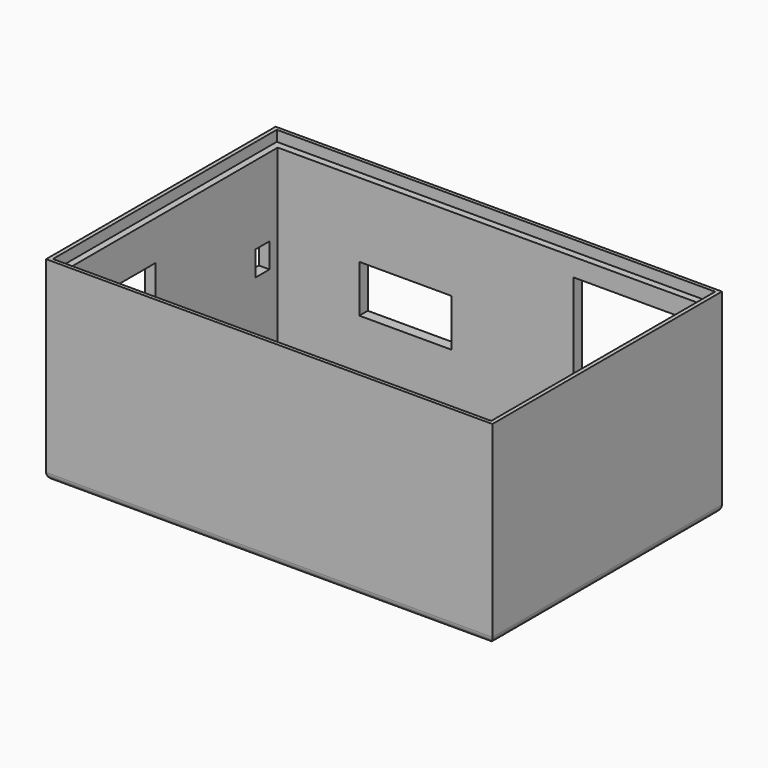
from build123d import *

# Parameters (mm, degrees)
SKETCH_W        = 126
SKETCH_H        = 81
SKETCH_W_2      = 120
SKETCH_H_2      = 75
PAD_DEPTH       = 49
SKETCH001_W     = 126
SKETCH001_H     = 81
PAD001_DEPTH    = 3
SKETCH006_W     = 26.07241
SKETCH006_H     = 13.378264
POCKET002_DEPTH = 5
SKETCH007_W     = 126
SKETCH007_H     = 81
SKETCH007_W_2   = 123.756296
SKETCH007_H_2   = 79.00857
PAD004_DEPTH    = 3
SKETCH003_W     = 17
SKETCH003_H     = 14
SKETCH003_W_2   = 6.8
POCKET_DEPTH    = 5
SKETCH004_W     = 30
SKETCH004_H     = 24
POCKET003_DEPTH = 10
FILLET_R        = 2
SKETCH008_W     = 5
SKETCH008_H     = 7
POCKET004_DEPTH = 5


with BuildPart() as part:
    # Sketch → Pad (new body)
    with BuildSketch(Plane.XY):
        Rectangle(SKETCH_W, SKETCH_H)
        Rectangle(SKETCH_W_2, SKETCH_H_2, mode=Mode.SUBTRACT)
    extrude(amount=PAD_DEPTH)

    # Sketch001 (on Face9 of Pad) → Pad001 (join)
    with BuildSketch(Plane(origin=(0, 0, 0), x_dir=(1, 0, 0), z_dir=(0, 0, -1))):
        Rectangle(SKETCH001_W, SKETCH001_H)
    extrude(amount=PAD001_DEPTH)

    # Sketch006 → Pocket002 (cut)
    with BuildSketch(Plane(origin=(0, 40.5, 0), x_dir=(-1, 0, 0), z_dir=(0, 1, 0))):
        with Locations((23.94159, 21.396661)):
            Rectangle(SKETCH006_W, SKETCH006_H)
    extrude(amount=-POCKET002_DEPTH, mode=Mode.SUBTRACT)

    # Sketch007 (on Face4 of Pocket002) → Pad004 (join)
    with BuildSketch(Plane.XY.offset(49)):
        Rectangle(SKETCH007_W, SKETCH007_H)
        Rectangle(SKETCH007_W_2, SKETCH007_H_2, mode=Mode.SUBTRACT)
    extrude(amount=PAD004_DEPTH)

    # Sketch003 → Pocket (cut)
    with BuildSketch(Plane(origin=(-63, 0, 0), x_dir=(0, -1, 0), z_dir=(-1, 0, 0))):
        with Locations((14.1, 30.857126)):
            Rectangle(SKETCH003_W, SKETCH003_H)
        with Locations((27.8, 31.697018)):
            Rectangle(SKETCH003_W_2, SKETCH003_H)
    extrude(amount=-POCKET_DEPTH, mode=Mode.SUBTRACT)

    # Sketch004 → Pocket003 (cut)
    with BuildSketch(Plane(origin=(0, 47.5, 0), x_dir=(-1, 0, 0), z_dir=(0, 1, 0))):
        with Locations((-38.538937, 31.890343)):
            Rectangle(SKETCH004_W, SKETCH004_H)
    extrude(amount=-POCKET003_DEPTH, mode=Mode.SUBTRACT)

    # Fillet
    fillet_edges = [part.edges().sort_by_distance(p)[0] for p in [
        (0, -40.5, -3),
        (63, 0, -3),
        (0, 40.5, -3),
        (-63, 0, -3),
    ]]
    fillet(fillet_edges, radius=FILLET_R)

    # Sketch008 (on Face11 of Fillet) → Pocket004 (cut)
    with BuildSketch(Plane(origin=(-63, 0, 0), x_dir=(0, -1, 0), z_dir=(-1, 0, 0))):
        with Locations((-32.098774, 23.391483)):
            Rectangle(SKETCH008_W, SKETCH008_H)
    extrude(amount=-POCKET004_DEPTH, mode=Mode.SUBTRACT)


solid = part.part
